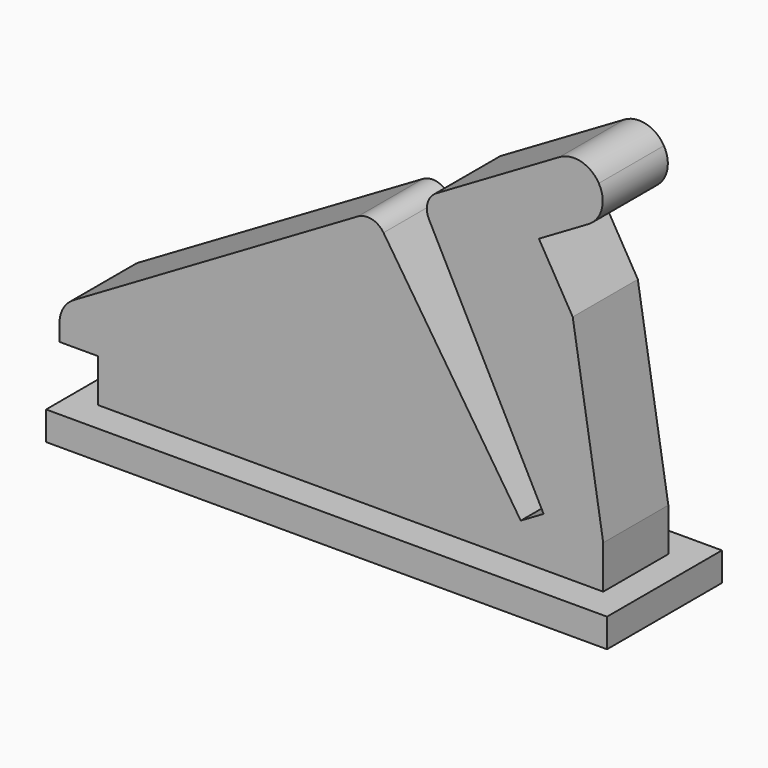
from build123d import *

# Parameters (mm, degrees)
F1_DEPTH = 3.75
F2_DEPTH = 2.125


with BuildPart() as f1:
    # F0 (on Front) → F1 (new body, symmetric)
    with BuildSketch(Plane.XZ):
        Polygon((-14.613904, 1.5), (-14.613904, 0), (14.686096, 0), (14.686096, 1.5), (13.186096, 1.5), (-13.213904, 1.5), align=None)
    extrude(amount=F1_DEPTH, both=True)

    # F0 (on Front) → F2 (join, symmetric)
    with BuildSketch(Plane.XZ):
        with BuildLine():
            Line((-13.213904, 3.75), (-13.213904, 1.5))
            Line((-13.213904, 1.5), (13.186096, 1.5))
            Line((13.186096, 1.5), (13.186096, 3.75))
            Line((13.186096, 3.75), (11.592854, 13.61754))
            Line((11.592854, 13.61754), (9.826933, 16.639381))
            Line((9.826933, 16.639381), (12.417082, 18.153027))
            ThreePointArc((12.417082, 18.153027), (13.11117, 19.067501), (12.955334, 20.204925))
            ThreePointArc((12.955334, 20.204925), (12.04086, 20.899013), (10.903436, 20.743177))
            Line((10.903436, 20.743177), (4.47028, 16.983732))
            ThreePointArc((4.47028, 16.983732), (4.014538, 16.399349), (4.086191, 15.661739))
            Line((4.086191, 15.661739), (10.071552, 4.064036))
            Line((10.071552, 4.064036), (8.877797, 3.366423))
            Line((8.877797, 3.366423), (1.711417, 14.273954))
            ThreePointArc((1.711417, 14.273954), (1.103954, 14.698445), (0.371112, 14.588236))
            Line((0.371112, 14.588236), (-14.470727, 5.914875))
            ThreePointArc((-14.470727, 5.914875), (-15.01491, 5.36638), (-15.213904, 4.6198))
            Line((-15.213904, 4.6198), (-15.213904, 3.75))
            Line((-15.213904, 3.75), (-13.213904, 3.75))
        make_face()
    extrude(amount=F2_DEPTH, both=True)


solid = f1.part
